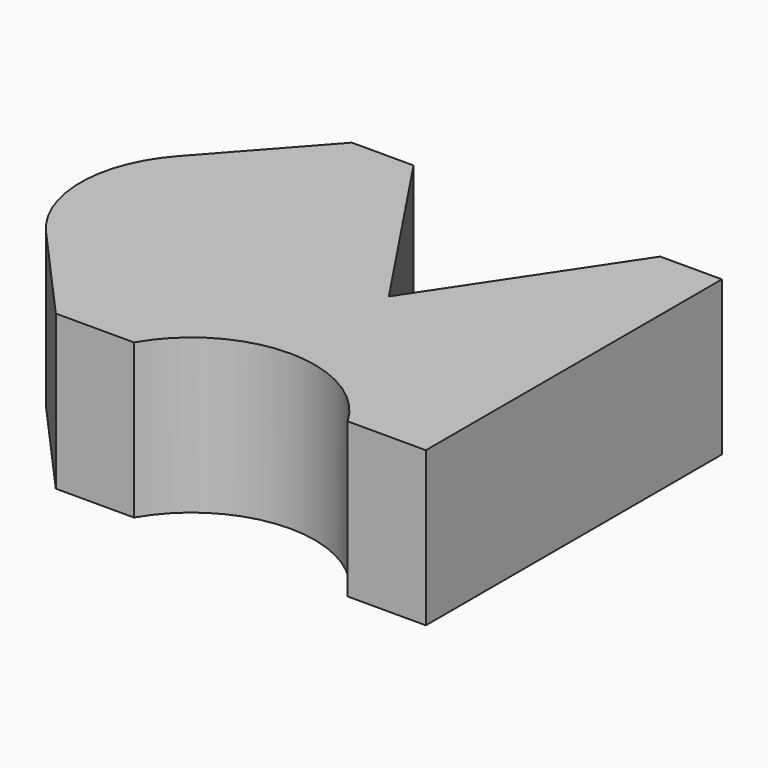
from build123d import *

# Parameters (mm, degrees)
F1_DEPTH = 25


with BuildPart() as f1:
    # F0 (on Top) → F1 (new body)
    with BuildSketch(Plane.XY):
        with BuildLine():
            Line((0, 0), (-20, 30))
            Line((-20, 30), (-30, 30))
            Line((-30, 30), (-44.90712, 13.333333))
            ThreePointArc((-44.90712, 13.333333), (-50, 0), (-44.90712, -13.333333))
            Line((-44.90712, -13.333333), (-30, -30))
            Line((-30, -30), (-17.320508, -30))
            ThreePointArc((-17.320508, -30), (0, -20), (17.320508, -30))
            Line((17.320508, -30), (30, -30))
            Line((30, -30), (30, 30))
            Line((30, 30), (20, 30))
            Line((20, 30), (0, 0))
        make_face()
    extrude(amount=F1_DEPTH)


solid = f1.part
